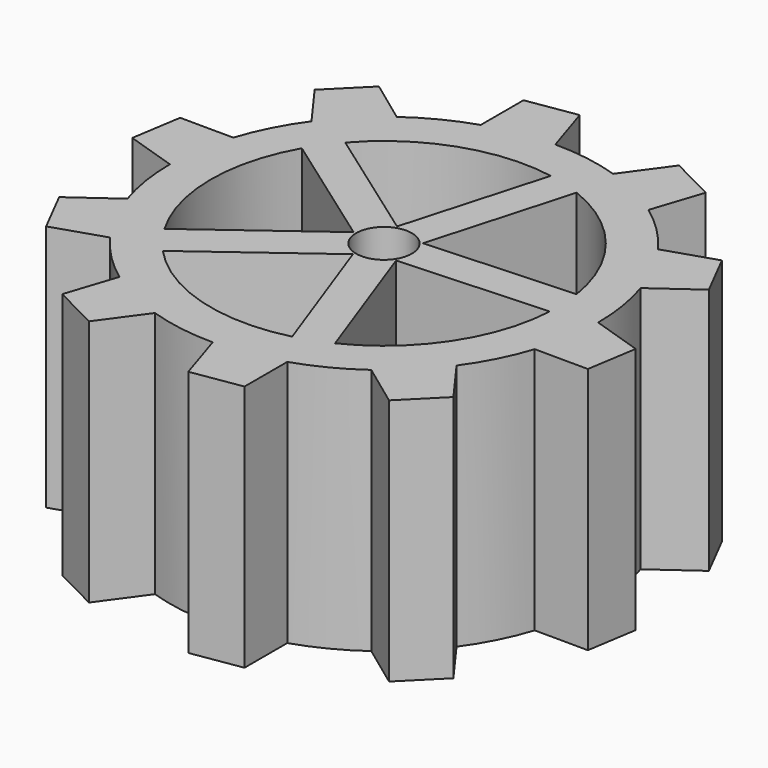
from build123d import *

# Parameters (mm, degrees)
F0_R     = 8.574164
F1_DEPTH = 76.2


with BuildPart() as f1:
    # F0 (on Top) → F1 (new body)
    with BuildSketch(Plane.XY):
        with BuildLine():
            Line((-62.982912, 52.03899), (-53.320178, 38.739377))
            ThreePointArc((-53.320178, 38.739377), (-58.723892, 29.921317), (-62.681629, 20.366496))
            Line((-62.681629, 20.366496), (-79.107822, 20.448776))
            Line((-79.107822, 20.448776), (-81.541997, 5.08))
            Line((-81.541997, 5.08), (-65.907365, 0))
            ThreePointArc((-65.907365, 0), (-65.095936, -10.310183), (-62.681629, -20.366496))
            Line((-62.681629, -20.366496), (-76.019062, -29.955004))
            Line((-76.019062, -29.955004), (-68.954811, -43.819377))
            Line((-68.954811, -43.819377), (-53.320178, -38.739377))
            ThreePointArc((-53.320178, -38.739377), (-46.603545, -46.603545), (-38.739377, -53.320178))
            Line((-38.739377, -53.320178), (-43.893603, -68.91699))
            Line((-43.893603, -68.91699), (-30.02923, -75.981241))
            Line((-30.02923, -75.981241), (-20.366496, -62.681629))
            ThreePointArc((-20.366496, -62.681629), (-10.310183, -65.095936), (0, -65.907365))
            Line((0, -65.907365), (4.99772, -81.555029))
            Line((4.99772, -81.555029), (20.366496, -79.120854))
            Line((20.366496, -79.120854), (20.366496, -62.681629))
            ThreePointArc((20.366496, -62.681629), (29.921317, -58.723892), (38.739377, -53.320178))
            Line((38.739377, -53.320178), (51.980083, -63.041819))
            Line((51.980083, -63.041819), (62.982912, -52.03899))
            Line((62.982912, -52.03899), (53.320178, -38.739377))
            ThreePointArc((53.320178, -38.739377), (58.723892, -29.921317), (62.681629, -20.366496))
            Line((62.681629, -20.366496), (79.107822, -20.448776))
            Line((79.107822, -20.448776), (81.541997, -5.08))
            Line((81.541997, -5.08), (65.907365, 0))
            ThreePointArc((65.907365, 0), (65.095936, 10.310183), (62.681629, 20.366496))
            Line((62.681629, 20.366496), (76.019062, 29.955004))
            Line((76.019062, 29.955004), (68.954811, 43.819377))
            Line((68.954811, 43.819377), (53.320178, 38.739377))
            ThreePointArc((53.320178, 38.739377), (46.603545, 46.603545), (38.739377, 53.320178))
            Line((38.739377, 53.320178), (43.893603, 68.91699))
            Line((43.893603, 68.91699), (30.02923, 75.981241))
            Line((30.02923, 75.981241), (20.366496, 62.681629))
            ThreePointArc((20.366496, 62.681629), (10.310183, 65.095936), (0, 65.907365))
            Line((0, 65.907365), (-4.99772, 81.555029))
            Line((-4.99772, 81.555029), (-20.366496, 79.120854))
            Line((-20.366496, 79.120854), (-20.366496, 62.681629))
            ThreePointArc((-20.366496, 62.681629), (-29.921317, 58.723892), (-38.739377, 53.320178))
            Line((-38.739377, 53.320178), (-51.980083, 63.041819))
            Line((-51.980083, 63.041819), (-62.982912, 52.03899))
        make_face()
        with BuildLine():
            Line((-39.07674, -36.264606), (-2.318997, -9.065045))
            Line((-2.318997, -9.065045), (13.082657, -51.681305))
            ThreePointArc((13.082657, -51.681305), (-15.110981, -51.125058), (-39.07674, -36.264606))
        make_face(mode=Mode.SUBTRACT)
        with BuildLine():
            ThreePointArc((-45.931127, -27.063718), (-53.309798, -0.422746), (-46.354553, 26.331894))
            Line((-46.354553, 26.331894), (-9.356965, 0))
            Line((-9.356965, 0), (-45.931127, -27.063718))
        make_face(mode=Mode.SUBTRACT)
        with BuildLine():
            Line((23.299045, -47.95068), (7.824161, -5.131793))
            Line((7.824161, -5.131793), (53.238628, -2.785991))
            ThreePointArc((53.238628, -2.785991), (44.434965, -29.45585), (23.299045, -47.95068))
        make_face(mode=Mode.SUBTRACT)
        with BuildLine():
            Line((9.329988, 52.488709), (-3.064794, 8.840805))
            Line((-3.064794, 8.840805), (-40.062383, 35.172699))
            ThreePointArc((-40.062383, 35.172699), (-17.637491, 50.309365), (9.329988, 52.488709))
        make_face(mode=Mode.SUBTRACT)
        Circle(F0_R, mode=Mode.SUBTRACT)
        with BuildLine():
            Line((52.668252, 8.256419), (7.253785, 5.910617))
            Line((7.253785, 5.910617), (19.648567, 49.558522))
            ThreePointArc((19.648567, 49.558522), (41.640083, 33.28989), (52.668252, 8.256419))
        make_face(mode=Mode.SUBTRACT)
    extrude(amount=F1_DEPTH)


solid = f1.part
